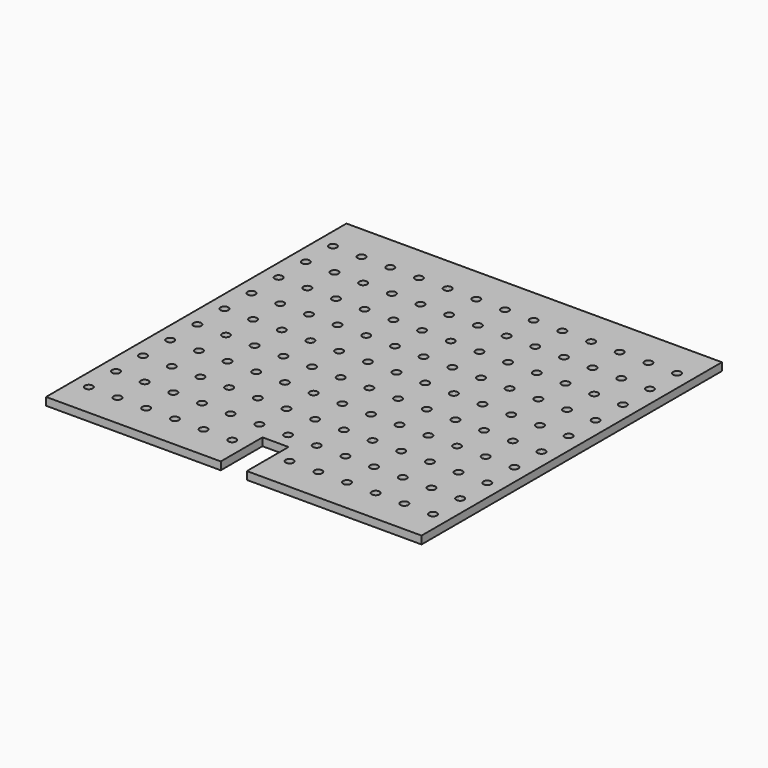
from build123d import *

# Parameters (mm, degrees)
SKETCH_W                         = 144
SKETCH_H                         = 144
PAD_DEPTH                        = 3
SKETCH003_W                      = 10
SKETCH003_H                      = 20
POCKET_DEPTH                     = 3.001
SKETCH004_R                      = 1.5
POCKET002_DEPTH                  = 410.338698
SKETCH004_LINEARPATTERN_2_R      = 1.5
POCKET002_LINEARPATTERN_2_DEPTH  = 410.338698
SKETCH004_LINEARPATTERN_3_R      = 1.5
POCKET002_LINEARPATTERN_3_DEPTH  = 410.338698
SKETCH004_LINEARPATTERN_4_R      = 1.5
POCKET002_LINEARPATTERN_4_DEPTH  = 410.338698
SKETCH004_LINEARPATTERN_5_R      = 1.5
POCKET002_LINEARPATTERN_5_DEPTH  = 410.338698
SKETCH004_LINEARPATTERN_6_R      = 1.5
POCKET002_LINEARPATTERN_6_DEPTH  = 410.338698
SKETCH004_LINEARPATTERN_7_R      = 1.5
POCKET002_LINEARPATTERN_7_DEPTH  = 410.338698
SKETCH004_LINEARPATTERN_8_R      = 1.5
POCKET002_LINEARPATTERN_8_DEPTH  = 410.338698
SKETCH004_LINEARPATTERN_9_R      = 1.5
POCKET002_LINEARPATTERN_9_DEPTH  = 410.338698
SKETCH004_LINEARPATTERN_10_R     = 1.5
POCKET002_LINEARPATTERN_10_DEPTH = 410.338698
SKETCH004_LINEARPATTERN_11_R     = 1.5
POCKET002_LINEARPATTERN_11_DEPTH = 410.338698
SKETCH004_LINEARPATTERN_12_R     = 1.5
POCKET002_LINEARPATTERN_12_DEPTH = 410.338698
SKETCH004_LINEARPATTERN_13_R     = 1.5
POCKET002_LINEARPATTERN_13_DEPTH = 410.338698
LINEARPATTERN001_COUNT           = 10
LINEARPATTERN001_PITCH           = 13


with BuildPart() as part:
    # Sketch → Pad (new body)
    with BuildSketch(Plane.XY):
        Rectangle(SKETCH_W, SKETCH_H)
    extrude(amount=PAD_DEPTH)

    # Sketch003 (on Face6 of Pad) → Pocket (cut, through all)
    with BuildSketch(Plane.XY.offset(3)):
        with Locations((0, -62)):
            Rectangle(SKETCH003_W, SKETCH003_H)
    extrude(amount=-POCKET_DEPTH, mode=Mode.SUBTRACT)

    # Sketch004 → Pocket002 (cut, through all)
    with BuildSketch(Plane.XY.offset(3)):
        with Locations((-66, -59)):
            Circle(SKETCH004_R)
    pocket002 = extrude(amount=-POCKET002_DEPTH, mode=Mode.SUBTRACT)

    # Sketch004 LinearPattern 2 → Pocket002 LinearPattern 2 (cut, through all)
    with BuildSketch(Plane(origin=(11, 0, 3), x_dir=(1, 0, 0), z_dir=(0, 0, 1))):
        with Locations((-66, -59)):
            Circle(SKETCH004_LINEARPATTERN_2_R)
    pocket002_linearpattern_2 = extrude(amount=-POCKET002_LINEARPATTERN_2_DEPTH, mode=Mode.SUBTRACT)

    # Sketch004 LinearPattern 3 → Pocket002 LinearPattern 3 (cut, through all)
    with BuildSketch(Plane(origin=(22, 0, 3), x_dir=(1, 0, 0), z_dir=(0, 0, 1))):
        with Locations((-66, -59)):
            Circle(SKETCH004_LINEARPATTERN_3_R)
    pocket002_linearpattern_3 = extrude(amount=-POCKET002_LINEARPATTERN_3_DEPTH, mode=Mode.SUBTRACT)

    # Sketch004 LinearPattern 4 → Pocket002 LinearPattern 4 (cut, through all)
    with BuildSketch(Plane(origin=(33, 0, 3), x_dir=(1, 0, 0), z_dir=(0, 0, 1))):
        with Locations((-66, -59)):
            Circle(SKETCH004_LINEARPATTERN_4_R)
    pocket002_linearpattern_4 = extrude(amount=-POCKET002_LINEARPATTERN_4_DEPTH, mode=Mode.SUBTRACT)

    # Sketch004 LinearPattern 5 → Pocket002 LinearPattern 5 (cut, through all)
    with BuildSketch(Plane(origin=(44, 0, 3), x_dir=(1, 0, 0), z_dir=(0, 0, 1))):
        with Locations((-66, -59)):
            Circle(SKETCH004_LINEARPATTERN_5_R)
    pocket002_linearpattern_5 = extrude(amount=-POCKET002_LINEARPATTERN_5_DEPTH, mode=Mode.SUBTRACT)

    # Sketch004 LinearPattern 6 → Pocket002 LinearPattern 6 (cut, through all)
    with BuildSketch(Plane(origin=(55, 0, 3), x_dir=(1, 0, 0), z_dir=(0, 0, 1))):
        with Locations((-66, -59)):
            Circle(SKETCH004_LINEARPATTERN_6_R)
    pocket002_linearpattern_6 = extrude(amount=-POCKET002_LINEARPATTERN_6_DEPTH, mode=Mode.SUBTRACT)

    # Sketch004 LinearPattern 7 → Pocket002 LinearPattern 7 (cut, through all)
    with BuildSketch(Plane(origin=(66, 0, 3), x_dir=(1, 0, 0), z_dir=(0, 0, 1))):
        with Locations((-66, -59)):
            Circle(SKETCH004_LINEARPATTERN_7_R)
    pocket002_linearpattern_7 = extrude(amount=-POCKET002_LINEARPATTERN_7_DEPTH, mode=Mode.SUBTRACT)

    # Sketch004 LinearPattern 8 → Pocket002 LinearPattern 8 (cut, through all)
    with BuildSketch(Plane(origin=(77, 0, 3), x_dir=(1, 0, 0), z_dir=(0, 0, 1))):
        with Locations((-66, -59)):
            Circle(SKETCH004_LINEARPATTERN_8_R)
    pocket002_linearpattern_8 = extrude(amount=-POCKET002_LINEARPATTERN_8_DEPTH, mode=Mode.SUBTRACT)

    # Sketch004 LinearPattern 9 → Pocket002 LinearPattern 9 (cut, through all)
    with BuildSketch(Plane(origin=(88, 0, 3), x_dir=(1, 0, 0), z_dir=(0, 0, 1))):
        with Locations((-66, -59)):
            Circle(SKETCH004_LINEARPATTERN_9_R)
    pocket002_linearpattern_9 = extrude(amount=-POCKET002_LINEARPATTERN_9_DEPTH, mode=Mode.SUBTRACT)

    # Sketch004 LinearPattern 10 → Pocket002 LinearPattern 10 (cut, through all)
    with BuildSketch(Plane(origin=(99, 0, 3), x_dir=(1, 0, 0), z_dir=(0, 0, 1))):
        with Locations((-66, -59)):
            Circle(SKETCH004_LINEARPATTERN_10_R)
    pocket002_linearpattern_10 = extrude(amount=-POCKET002_LINEARPATTERN_10_DEPTH, mode=Mode.SUBTRACT)

    # Sketch004 LinearPattern 11 → Pocket002 LinearPattern 11 (cut, through all)
    with BuildSketch(Plane(origin=(110, 0, 3), x_dir=(1, 0, 0), z_dir=(0, 0, 1))):
        with Locations((-66, -59)):
            Circle(SKETCH004_LINEARPATTERN_11_R)
    pocket002_linearpattern_11 = extrude(amount=-POCKET002_LINEARPATTERN_11_DEPTH, mode=Mode.SUBTRACT)

    # Sketch004 LinearPattern 12 → Pocket002 LinearPattern 12 (cut, through all)
    with BuildSketch(Plane(origin=(121, 0, 3), x_dir=(1, 0, 0), z_dir=(0, 0, 1))):
        with Locations((-66, -59)):
            Circle(SKETCH004_LINEARPATTERN_12_R)
    pocket002_linearpattern_12 = extrude(amount=-POCKET002_LINEARPATTERN_12_DEPTH, mode=Mode.SUBTRACT)

    # Sketch004 LinearPattern 13 → Pocket002 LinearPattern 13 (cut, through all)
    with BuildSketch(Plane(origin=(132, 0, 3), x_dir=(1, 0, 0), z_dir=(0, 0, 1))):
        with Locations((-66, -59)):
            Circle(SKETCH004_LINEARPATTERN_13_R)
    pocket002_linearpattern_13 = extrude(amount=-POCKET002_LINEARPATTERN_13_DEPTH, mode=Mode.SUBTRACT)

    # LinearPattern001: Pocket002, Pocket002 LinearPattern 2, Pocket002 LinearPattern 3, Pocket002 LinearPattern 4, Pocket002 LinearPattern 5, Pocket002 LinearPattern 6, Pocket002 LinearPattern 7, Pocket002 LinearPattern 8, Pocket002 LinearPattern 9, Pocket002 LinearPattern 10, Pocket002 LinearPattern 11, Pocket002 LinearPattern 12, Pocket002 LinearPattern 13 ×10
    with Locations(*[(0, i * LINEARPATTERN001_PITCH, 0) for i in range(1, LINEARPATTERN001_COUNT)]):
        add(pocket002, mode=Mode.SUBTRACT)
        add(pocket002_linearpattern_2, mode=Mode.SUBTRACT)
        add(pocket002_linearpattern_3, mode=Mode.SUBTRACT)
        add(pocket002_linearpattern_4, mode=Mode.SUBTRACT)
        add(pocket002_linearpattern_5, mode=Mode.SUBTRACT)
        add(pocket002_linearpattern_6, mode=Mode.SUBTRACT)
        add(pocket002_linearpattern_7, mode=Mode.SUBTRACT)
        add(pocket002_linearpattern_8, mode=Mode.SUBTRACT)
        add(pocket002_linearpattern_9, mode=Mode.SUBTRACT)
        add(pocket002_linearpattern_10, mode=Mode.SUBTRACT)
        add(pocket002_linearpattern_11, mode=Mode.SUBTRACT)
        add(pocket002_linearpattern_12, mode=Mode.SUBTRACT)
        add(pocket002_linearpattern_13, mode=Mode.SUBTRACT)


solid = part.part
